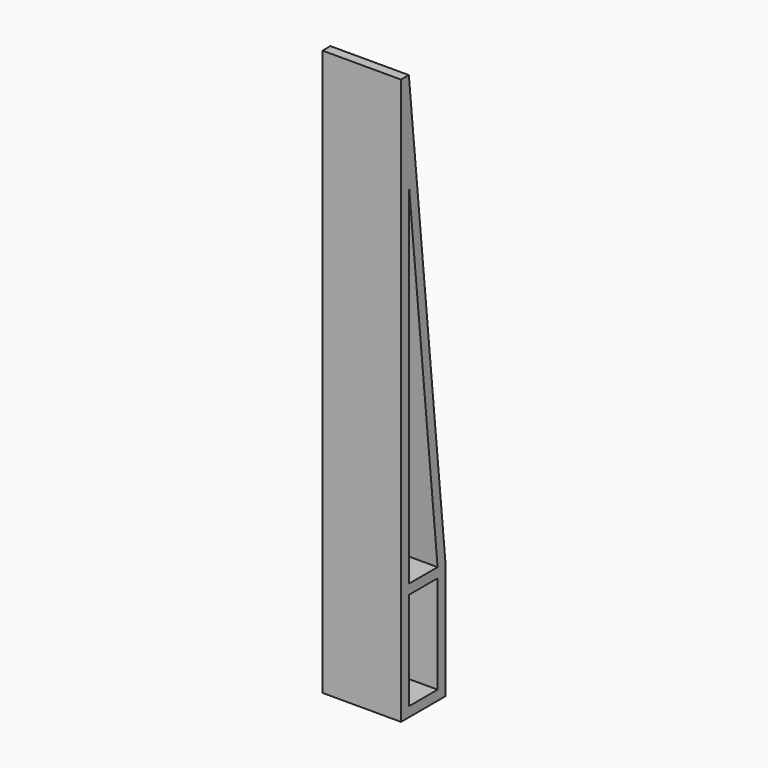
from build123d import *

# Parameters (mm, degrees)
F1_DEPTH = 30.48


with BuildPart() as f1:
    # F0 (on Right) → F1 (new body)
    with BuildSketch(Plane.YZ):
        Polygon((-16.846271, -61.488151), (-34.626271, 112.501849), (-34.626271, 75.218277), (-20.656271, -61.488151), align=None)
        Polygon((-34.626271, 112.501849), (-38.436271, 112.501849), (-38.436271, -107.208151), (-34.626271, -107.208151), (-34.626271, -103.398151), (-34.626271, -65.298151), (-34.626271, -61.488151), (-34.626271, 75.218277), align=None)
        Polygon((-34.626271, -103.398151), (-34.626271, -107.208151), (-16.846271, -107.208151), (-16.846271, -61.488151), (-20.656271, -61.488151), (-34.626271, -61.488151), (-34.626271, -65.298151), (-20.656271, -65.298151), (-20.656271, -103.398151), align=None)
    extrude(amount=F1_DEPTH)


solid = f1.part
